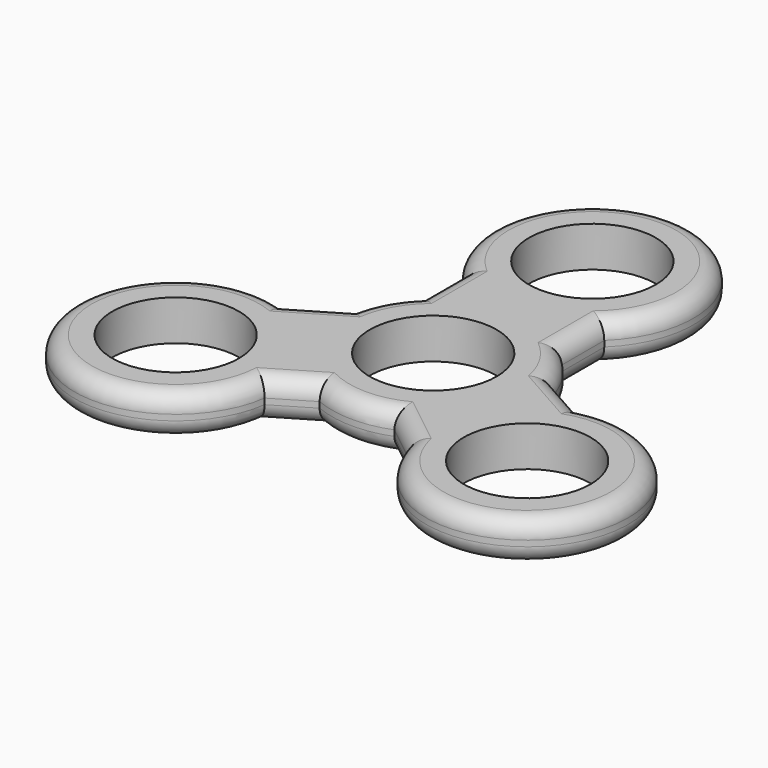
from build123d import *

# Parameters (mm, degrees)
F0_R     = 10.9855
F1_DEPTH = 7
F2_R     = 3
F3_R     = 3


with BuildPart() as f1:
    # F0 (on Top) → F1 (new body)
    with BuildSketch(Plane.XY):
        with BuildLine():
            Line((6.352703, -16.334131), (12.74337, -21.388376))
            ThreePointArc((12.74337, -21.388376), (44.877639, -25.326892), (24.974809, 0.20741))
            Line((24.974809, 0.20741), (16.856581, 4.797535))
            ThreePointArc((16.856581, 4.797535), (15.02631, 9.02057), (12.159721, 12.621484))
            Line((12.159721, 12.621484), (12.159721, 21.840387))
            ThreePointArc((12.159721, 21.840387), (0.070983, 51.987727), (-12.261559, 21.939298))
            Line((-12.261559, 21.939298), (-12.261559, 12.522573))
            ThreePointArc((-12.261559, 12.522573), (-15.275632, 8.591609), (-17.069431, 3.974316))
            Line((-17.069431, 3.974316), (-25.257866, -0.878144))
            ThreePointArc((-25.257866, -0.878144), (-45.355256, -26.93986), (-13.175902, -20.040053))
            Line((-13.175902, -20.040053), (-6.713005, -16.189387))
            ThreePointArc((-6.713005, -16.189387), (-0.194145, -17.524925), (6.352703, -16.334131))
        make_face()
        with Locations((-30.530132, -17.592326)):
            Circle(F0_R, mode=Mode.SUBTRACT)
        with Locations((29.627761, -16.689653)):
            Circle(F0_R, mode=Mode.SUBTRACT)
        Circle(F0_R, mode=Mode.SUBTRACT)
        with Locations((0, 34.461871)):
            Circle(F0_R, mode=Mode.SUBTRACT)
    extrude(amount=F1_DEPTH)

    # F2
    f2_edges = [f1.edges().sort_by_distance(p)[0] for p in [
        (0.070983, 51.987727, 0),
        (12.159721, 17.230935, 0),
        (15.02631, 9.02057, 0),
        (20.915695, 2.502472, 0),
        (44.877639, -25.326892, 0),
        (9.548036, -18.861254, 0),
        (-0.194145, -17.524925, 0),
        (-9.944453, -18.11472, 0),
        (-45.355256, -26.93986, 0),
        (-21.163649, 1.548086, 0),
        (-15.275632, 8.591609, 0),
        (-12.261559, 17.230935, 0),
    ]]
    fillet(f2_edges, radius=F2_R)

    # F3
    f3_edges = [f1.edges().sort_by_distance(p)[0] for p in [
        (0.070983, 51.987727, 7),
        (-12.261559, 17.230935, 7),
        (-15.275632, 8.591609, 7),
        (-21.163649, 1.548086, 7),
        (-45.355256, -26.93986, 7),
        (-9.944453, -18.11472, 7),
        (-0.194145, -17.524925, 7),
        (44.877639, -25.326892, 7),
        (9.548036, -18.861254, 7),
        (20.915695, 2.502472, 7),
        (15.02631, 9.02057, 7),
        (12.159721, 17.230935, 7),
    ]]
    fillet(f3_edges, radius=F3_R)


solid = f1.part
